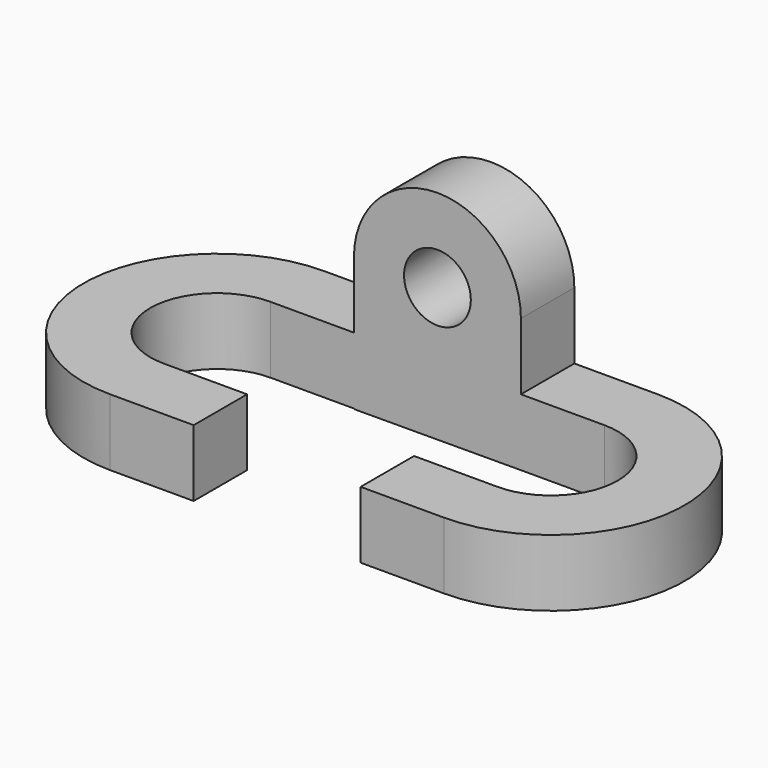
from build123d import *

# Parameters (mm, degrees)
F1_DEPTH = 12.7
F2_R     = 6.35
F3_DEPTH = 12.7


with BuildPart() as f1:
    # F0 (on Top) → F1 (new body)
    with BuildSketch(Plane.XY):
        with BuildLine():
            Line((15.875, -25.4), (31.75, -25.4))
            ThreePointArc((31.75, -25.4), (57.15, 0), (31.75, 25.4))
            Line((31.75, 25.4), (0, 25.4))
            Line((0, 25.4), (-31.75, 25.4))
            ThreePointArc((-31.75, 25.4), (-57.15, 0), (-31.75, -25.4))
            Line((-31.75, -25.4), (-15.875, -25.4))
            Line((-15.875, -25.4), (-15.875, -12.7))
            Line((-15.875, -12.7), (-31.75, -12.7))
            ThreePointArc((-31.75, -12.7), (-44.45, 0), (-31.75, 12.7))
            Line((-31.75, 12.7), (0, 12.7))
            Line((0, 12.7), (31.75, 12.7))
            ThreePointArc((31.75, 12.7), (44.45, 0), (31.75, -12.7))
            Line((31.75, -12.7), (15.875, -12.7))
            Line((15.875, -12.7), (15.875, -25.4))
        make_face()
    extrude(amount=F1_DEPTH)

    # F2 (on face) → F3 (join)
    with BuildSketch(Plane.XZ.offset(-12.7)):
        with BuildLine():
            Line((15.875, 0), (15.875, 25.4))
            ThreePointArc((15.875, 25.4), (0, 41.275), (-15.875, 25.4))
            Line((-15.875, 25.4), (-15.875, -0.097406))
            Line((-15.875, -0.097406), (15.875, 0))
        make_face()
        with Locations((0, 25.4)):
            Circle(F2_R, mode=Mode.SUBTRACT)
    extrude(amount=-F3_DEPTH)


solid = f1.part
